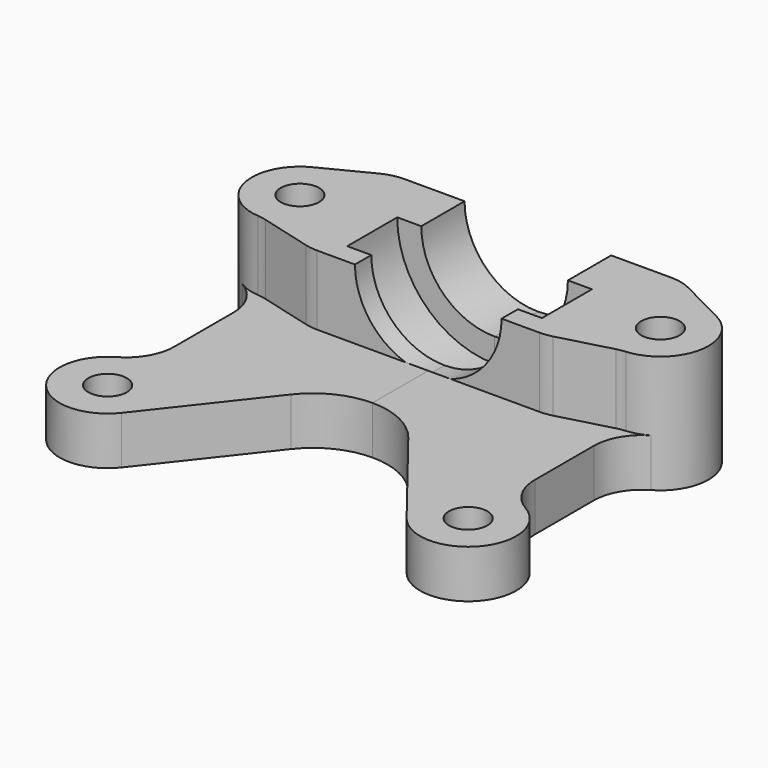
from build123d import *

# Parameters (mm, degrees)
F0_R     = 1.6
F1_DEPTH = 9.8
F4_R     = 4
F5_R     = 1.6
F6_DEPTH = 4


with BuildPart() as f1:
    # F0 (on Top) → F1 (new body)
    with BuildSketch(Plane.XY):
        with BuildLine():
            Line((0, -5.4), (0, 6))
            Line((0, 6), (-12.0350940253, 6))
            Line((-12.0350940253, 6), (-16.815961999, 3.5640260968))
            ThreePointArc((-16.815961999, 3.5640260968), (-18.8894796816, -0.9337814554), (-15, -4))
            Line((-15, -4), (-9.7751288694, -5.4))
            Line((-9.7751288694, -5.4), (0, -5.4))
        make_face()
        with Locations((-15, 0)):
            Circle(F0_R, mode=Mode.SUBTRACT)
    extrude(amount=F1_DEPTH)

    # F2 (on face) → F3 (revolve, cut)
    with BuildSketch(Plane.XY.offset(9.8)):
        Polygon((0, -5.4), (0, 6), (-6.1, 6), (-6.1, 1.5), (-8.1, 1.5), (-8.1, -3.7), (-6.1, -3.7), (-6.1, -5.4), align=None)
    revolve(axis=Axis((0, 0.3, 9.8), (0, 1, 0)), mode=Mode.SUBTRACT)

    # F4
    f4_edges = [f1.edges().sort_by_distance(p)[0] for p in [
        (-15, -4, 4.9),
        (-9.775129, -5.4, 4.9),
        (-12.035094, 6, 4.9),
        (-16.815962, 3.564026, 4.9),
    ]]
    fillet(f4_edges, radius=F4_R)

    # F5 (on face) → F6 (join)
    with BuildSketch(Plane(origin=(0, 0, 0), x_dir=(1, 0, 0), z_dir=(0, 0, -1))):
        with BuildLine():
            Line((-6.1, 5.4), (0, 5.4))
            Line((0, 5.4), (0, 11.2))
            ThreePointArc((0, 11.2), (-2.7131032194, 11.825139381), (-4.8790878364, 13.5744932513))
            Line((-4.8790878364, 13.5744932513), (-11.8522013958, 22.4680688701))
            ThreePointArc((-11.8522013958, 22.4680688701), (-18.0210961712, 22.6216364974), (-17, 16.5358983849))
            ThreePointArc((-17, 16.5358983849), (-15.5358983849, 15.0717967697), (-15, 13.0717967697))
            Line((-15, 13.0717967697), (-15, 6.9282032303))
            ThreePointArc((-15, 6.9282032303), (-15.5358983849, 4.9282032303), (-17, 3.4641016151))
            ThreePointArc((-17, 3.4641016151), (-16.1831185969, 3.8210247821), (-15.3074739577, 3.9881649621))
            ThreePointArc((-15.3074739577, 3.9881649621), (-14.9406948774, 4.0335665735), (-14.5796717351, 4.1126266191))
            Line((-14.5796717351, 4.1126266191), (-10.2837950595, 5.2637033052))
            ThreePointArc((-10.2837950595, 5.2637033052), (-9.7706236479, 5.3657794455), (-9.2485188791, 5.4))
            Line((-9.2485188791, 5.4), (-6.1, 5.4))
        make_face()
        with Locations((-15, 20)):
            Circle(F5_R, mode=Mode.SUBTRACT)
    extrude(amount=-F6_DEPTH)

    # F7: F1 across face


with BuildPart() as f1_1:
    add(f1.part)
    add(f1.part.mirror(Plane(origin=(0, -3.0641324118, 1.7525100036), x_dir=(0, 1, 0), z_dir=(1, 0, 0))))


solid = f1_1.part
